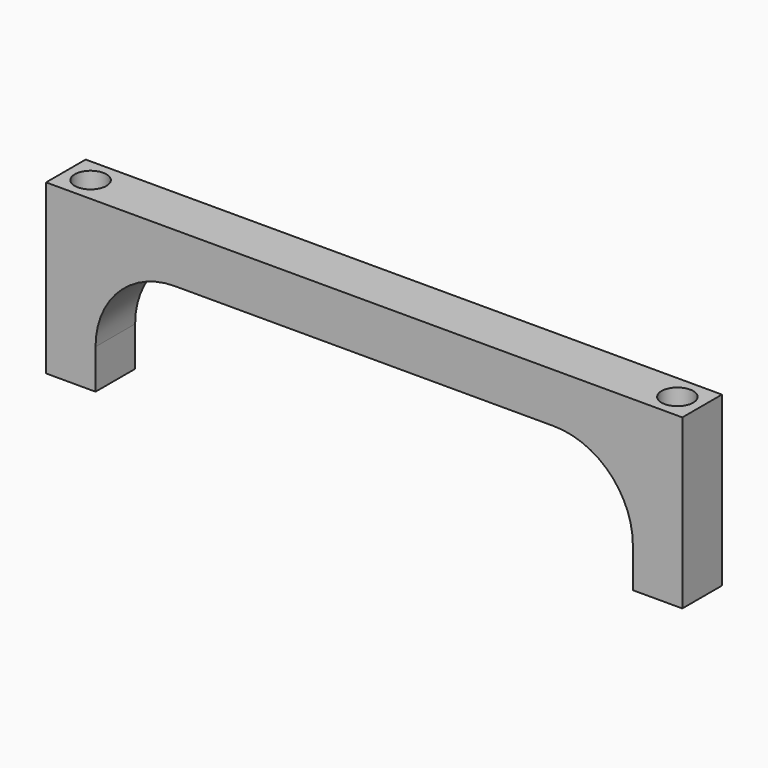
from build123d import *

# Parameters (mm, degrees)
PAD_DEPTH    = 2.5
SKETCH001_R  = 1.6
POCKET_DEPTH = 17.001


with BuildPart() as part:
    # Sketch → Pad (new body, symmetric)
    with BuildSketch(Plane.XZ):
        with BuildLine():
            ThreePointArc((-19.15, 12), (-24.806854, 9.656854), (-27.15, 4))
            Line((-27.15, 0), (-27.15, 4))
            Line((-27.15, 0), (-32.15, 0))
            Line((-32.15, 0), (-32.15, 17))
            Line((-32.15, 17), (32.15, 17))
            Line((32.15, 0), (32.15, 17))
            Line((27.15, 0), (32.15, 0))
            Line((27.15, 0), (27.15, 4))
            ThreePointArc((27.15, 4), (24.806854, 9.656854), (19.15, 12))
            Line((-19.15, 12), (19.15, 12))
        make_face()
    extrude(amount=PAD_DEPTH, both=True)

    # Sketch001 → Pocket (cut, through all)
    with BuildSketch(Plane.XY):
        with Locations((-29.65, 0)):
            Circle(SKETCH001_R)
        with Locations((29.65, 0)):
            Circle(SKETCH001_R)
    extrude(amount=POCKET_DEPTH, mode=Mode.SUBTRACT)


solid = part.part
